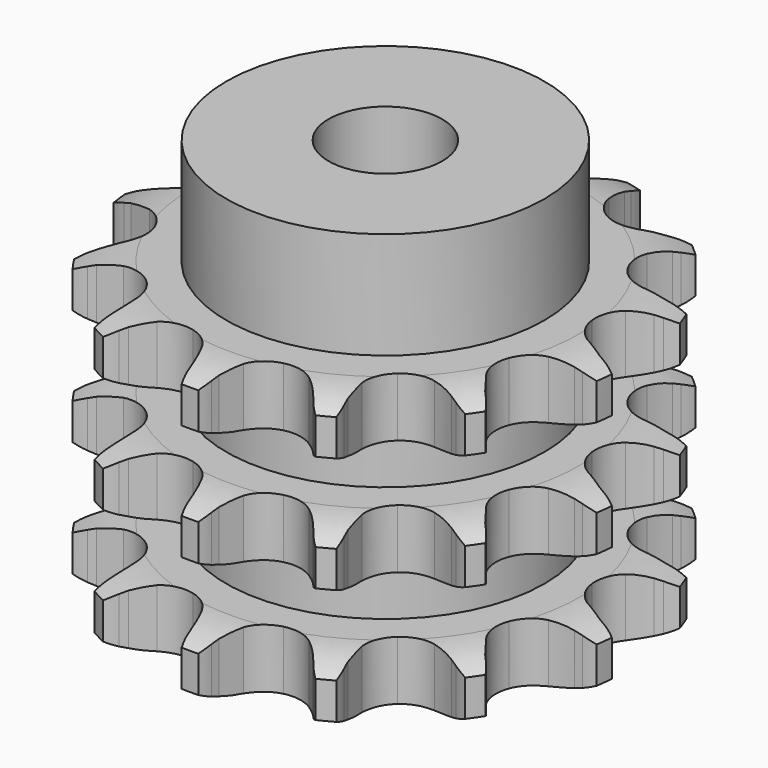
from build123d import *

# Parameters (mm, degrees)
PAD_DEPTH         = 25.6
SKETCH001_R       = 14
PAD001_DEPTH      = 35
SKETCH002_R       = 5
POCKET_DEPTH      = 0.001
POCKET_DEPTH_BACK = 35.001


with BuildPart() as part:
    # Sprocket → Pad (new body)
    with BuildSketch(Plane.XY):
        with BuildLine():
            ThreePointArc((-5.427337, 22.019571), (-4.523347, 21.152768), (-3.847053, 20.098647))
            Line((-3.847053, 20.098647), (-3.559603, 19.507274))
            ThreePointArc((-3.559603, 19.507274), (-3.073325, 18.64237), (-2.487415, 17.8416))
            ThreePointArc((-2.487415, 17.8416), (-1.374438, 16.978646), (0, 16.671519))
            ThreePointArc((0, 16.671519), (1.374438, 16.978646), (2.487415, 17.8416))
            ThreePointArc((2.487415, 17.8416), (3.073325, 18.64237), (3.559603, 19.507274))
            Line((3.559603, 19.507274), (3.847053, 20.098647))
            ThreePointArc((3.847053, 20.098647), (4.523347, 21.152768), (5.427337, 22.019571))
            ThreePointArc((5.427337, 22.019571), (5.824957, 20.83195), (5.933911, 19.584282))
            Line((5.933911, 19.584282), (5.91361, 18.927063))
            ThreePointArc((5.91361, 18.927063), (5.942247, 17.935245), (6.088908, 16.953912))
            ThreePointArc((6.088908, 16.953912), (6.673365, 15.672578), (7.747641, 14.761897))
            ThreePointArc((7.747641, 14.761897), (9.107375, 14.395111), (10.493902, 14.641993))
            Line((10.493902, 14.641993), (12.217354, 15.618603))
            ThreePointArc((12.217354, 15.618603), (12.478169, 15.818866), (12.746703, 16.008653))
            ThreePointArc((12.746703, 16.008653), (13.835406, 16.627742), (15.038673, 16.975153))
            ThreePointArc((15.038673, 16.975153), (14.838833, 15.738783), (14.355487, 14.583395))
            Line((14.355487, 14.583395), (14.032087, 14.01089))
            ThreePointArc((14.032087, 14.01089), (13.596522, 13.119371), (13.270336, 12.182287))
            ThreePointArc((13.270336, 12.182287), (13.192382, 10.776111), (13.720391, 9.470502))
            ThreePointArc((13.720391, 9.470502), (14.753922, 8.513829), (16.096362, 8.088081))
            Line((16.096362, 8.088081), (18.076257, 8.151899))
            ThreePointArc((18.076257, 8.151899), (18.400263, 8.208017), (18.726237, 8.25127))
            ThreePointArc((18.726237, 8.25127), (19.977941, 8.2935), (21.204831, 8.041932))
            ThreePointArc((21.204831, 8.041932), (20.453311, 7.040051), (19.488394, 6.241627))
            Line((19.488394, 6.241627), (18.935981, 5.884992))
            ThreePointArc((18.935981, 5.884992), (18.135998, 5.298007), (17.41169, 4.619846))
            ThreePointArc((17.41169, 4.619846), (16.689182, 3.410967), (16.549965, 2.00953))
            ThreePointArc((16.549965, 2.00953), (17.020523, 0.682132), (18.01134, -0.318712))
            Line((18.01134, -0.318712), (19.794106, -1.182308))
            ThreePointArc((19.794106, -1.182308), (20.10708, -1.283191), (20.415816, -1.396379))
            ThreePointArc((20.415816, -1.396379), (21.54377, -1.940682), (22.513217, -2.733599))
            ThreePointArc((22.513217, -2.733599), (21.382183, -3.271472), (20.156745, -3.530022))
            Line((20.156745, -3.530022), (19.50187, -3.589088))
            ThreePointArc((19.50187, -3.589088), (18.520735, -3.737066), (17.564236, -4.000945))
            ThreePointArc((17.564236, -4.000945), (16.362692, -4.735589), (15.588141, -5.911802))
            ThreePointArc((15.588141, -5.911802), (15.387927, -7.305833), (15.800136, -8.652492))
            Line((15.800136, -8.652492), (16.977365, -10.245661))
            ThreePointArc((16.977365, -10.245661), (17.207606, -10.480435), (17.428377, -10.724135))
            ThreePointArc((17.428377, -10.724135), (18.174181, -11.730278), (18.664097, -12.882896))
            ThreePointArc((18.664097, -12.882896), (17.412654, -12.833541), (16.207428, -12.492985))
            Line((16.207428, -12.492985), (15.600116, -12.240951))
            ThreePointArc((15.600116, -12.240951), (14.662595, -11.916023), (13.693026, -11.705168))
            ThreePointArc((13.693026, -11.705168), (12.287707, -11.797278), (11.055262, -12.478811))
            ThreePointArc((11.055262, -12.478811), (10.230143, -13.62012), (9.969312, -15.004091))
            Line((9.969312, -15.004091), (10.271314, -16.961857))
            ThreePointArc((10.271314, -16.961857), (10.366078, -17.276738), (10.448308, -17.595121))
            ThreePointArc((10.448308, -17.595121), (10.641106, -18.832608), (10.539257, -20.080876))
            ThreePointArc((10.539257, -20.080876), (9.454095, -19.455599), (8.545185, -18.593956))
            Line((8.545185, -18.593956), (8.124564, -18.088559))
            ThreePointArc((8.124564, -18.088559), (7.445431, -17.365162), (6.68491, -16.727878))
            ThreePointArc((6.68491, -16.727878), (5.397756, -16.156353), (3.989756, -16.187075))
            ThreePointArc((3.989756, -16.187075), (2.728756, -16.814202), (1.854639, -17.918433))
            Line((1.854639, -17.918433), (1.212229, -19.792297))
            ThreePointArc((1.212229, -19.792297), (1.149805, -20.115148), (1.074657, -20.435276))
            ThreePointArc((1.074657, -20.435276), (0.670282, -21.620615), (0, -22.678569))
            ThreePointArc((0, -22.678569), (-0.670282, -21.620615), (-1.074657, -20.435276))
            Line((-1.074657, -20.435276), (-1.212229, -19.792297))
            ThreePointArc((-1.212229, -19.792297), (-1.477391, -18.836152), (-1.854639, -17.918433))
            ThreePointArc((-1.854639, -17.918433), (-2.728756, -16.814202), (-3.989756, -16.187075))
            ThreePointArc((-3.989756, -16.187075), (-5.397756, -16.156353), (-6.68491, -16.727878))
            Line((-6.68491, -16.727878), (-8.124564, -18.088559))
            ThreePointArc((-8.124564, -18.088559), (-8.329873, -18.34542), (-8.545185, -18.593956))
            ThreePointArc((-8.545185, -18.593956), (-9.454095, -19.455599), (-10.539257, -20.080876))
            ThreePointArc((-10.539257, -20.080876), (-10.641106, -18.832608), (-10.448308, -17.595121))
            Line((-10.448308, -17.595121), (-10.271314, -16.961857))
            ThreePointArc((-10.271314, -16.961857), (-10.061761, -15.992006), (-9.969312, -15.004091))
            ThreePointArc((-9.969312, -15.004091), (-10.230143, -13.62012), (-11.055262, -12.478811))
            ThreePointArc((-11.055262, -12.478811), (-12.287707, -11.797278), (-13.693026, -11.705168))
            Line((-13.693026, -11.705168), (-15.600116, -12.240951))
            ThreePointArc((-15.600116, -12.240951), (-15.901278, -12.372978), (-16.207428, -12.492985))
            ThreePointArc((-16.207428, -12.492985), (-17.412654, -12.833541), (-18.664097, -12.882896))
            ThreePointArc((-18.664097, -12.882896), (-18.174181, -11.730278), (-17.428377, -10.724135))
            Line((-17.428377, -10.724135), (-16.977365, -10.245661))
            ThreePointArc((-16.977365, -10.245661), (-16.341103, -9.484285), (-15.800136, -8.652492))
            ThreePointArc((-15.800136, -8.652492), (-15.387927, -7.305833), (-15.588141, -5.911802))
            ThreePointArc((-15.588141, -5.911802), (-16.362692, -4.735589), (-17.564236, -4.000945))
            Line((-17.564236, -4.000945), (-19.50187, -3.589088))
            ThreePointArc((-19.50187, -3.589088), (-19.829892, -3.566035), (-20.156745, -3.530022))
            ThreePointArc((-20.156745, -3.530022), (-21.382183, -3.271472), (-22.513217, -2.733599))
            ThreePointArc((-22.513217, -2.733599), (-21.54377, -1.940682), (-20.415816, -1.396379))
            Line((-20.415816, -1.396379), (-19.794106, -1.182308))
            ThreePointArc((-19.794106, -1.182308), (-18.876895, -0.803828), (-18.01134, -0.318712))
            ThreePointArc((-18.01134, -0.318712), (-17.020523, 0.682132), (-16.549965, 2.00953))
            ThreePointArc((-16.549965, 2.00953), (-16.689182, 3.410967), (-17.41169, 4.619846))
            Line((-17.41169, 4.619846), (-18.935981, 5.884992))
            ThreePointArc((-18.935981, 5.884992), (-19.215717, 6.057843), (-19.488394, 6.241627))
            ThreePointArc((-19.488394, 6.241627), (-20.453311, 7.040051), (-21.204831, 8.041932))
            ThreePointArc((-21.204831, 8.041932), (-19.977941, 8.2935), (-18.726237, 8.25127))
            Line((-18.726237, 8.25127), (-18.076257, 8.151899))
            ThreePointArc((-18.076257, 8.151899), (-17.088218, 8.060776), (-16.096362, 8.088081))
            ThreePointArc((-16.096362, 8.088081), (-14.753922, 8.513829), (-13.720391, 9.470502))
            ThreePointArc((-13.720391, 9.470502), (-13.192382, 10.776111), (-13.270336, 12.182287))
            Line((-13.270336, 12.182287), (-14.032087, 14.01089))
            ThreePointArc((-14.032087, 14.01089), (-14.199452, 14.293942), (-14.355487, 14.583395))
            ThreePointArc((-14.355487, 14.583395), (-14.838833, 15.738783), (-15.038673, 16.975153))
            ThreePointArc((-15.038673, 16.975153), (-13.835406, 16.627742), (-12.746703, 16.008653))
            Line((-12.746703, 16.008653), (-12.217354, 15.618603))
            ThreePointArc((-12.217354, 15.618603), (-11.384836, 15.078754), (-10.493902, 14.641993))
            ThreePointArc((-10.493902, 14.641993), (-9.107375, 14.395111), (-7.747641, 14.761897))
            ThreePointArc((-7.747641, 14.761897), (-6.673365, 15.672578), (-6.088908, 16.953912))
            Line((-6.088908, 16.953912), (-5.91361, 18.927063))
            ThreePointArc((-5.91361, 18.927063), (-5.930264, 19.255472), (-5.933911, 19.584282))
            ThreePointArc((-5.933911, 19.584282), (-5.824957, 20.83195), (-5.427337, 22.019571))
        make_face()
    extrude(amount=PAD_DEPTH)

    # Sketch → Groove (revolve, cut)
    with BuildSketch(Plane.XZ):
        with BuildLine():
            ThreePointArc((17.141101, 0), (19.377169, 0.253206), (21.5, 1))
            Line((21.5, 1), (21.5, 4.2))
            ThreePointArc((21.5, 4.2), (19.377169, 4.946794), (17.141101, 5.2))
            Line((14, 5.2), (17.141101, 5.2))
            Line((14, 5.2), (14, 10.2))
            Line((14, 10.2), (17.141101, 10.2))
            ThreePointArc((17.141101, 10.2), (19.377169, 10.453206), (21.5, 11.2))
            Line((21.5, 14.4), (21.5, 11.2))
            ThreePointArc((21.5, 14.4), (19.377169, 15.146794), (17.141101, 15.4))
            Line((14, 15.4), (17.141101, 15.4))
            Line((14, 20.4), (14, 15.4))
            Line((17.141101, 20.4), (14, 20.4))
            ThreePointArc((17.141101, 20.4), (19.377169, 20.653206), (21.5, 21.4))
            Line((21.5, 21.4), (21.5, 24.6))
            ThreePointArc((21.5, 24.6), (19.377169, 25.346794), (17.141101, 25.6))
            Line((17.141101, 25.6), (31.5, 25.6))
            Line((31.5, 25.6), (31.5, 0))
            Line((17.141101, 0), (31.5, 0))
        make_face()
    revolve(axis=Axis((0, 0, 0), (0, 0, 1)), mode=Mode.SUBTRACT)

    # Sketch001 → Pad001 (join)
    with BuildSketch(Plane.XY):
        Circle(SKETCH001_R)
    extrude(amount=PAD001_DEPTH)

    # Sketch002 → Pocket (cut, two sides)
    with BuildSketch(Plane.XY) as pocket_sk:
        Circle(SKETCH002_R)
    extrude(amount=-POCKET_DEPTH, mode=Mode.SUBTRACT)
    extrude(pocket_sk.sketch, amount=POCKET_DEPTH_BACK, mode=Mode.SUBTRACT)


solid = part.part
